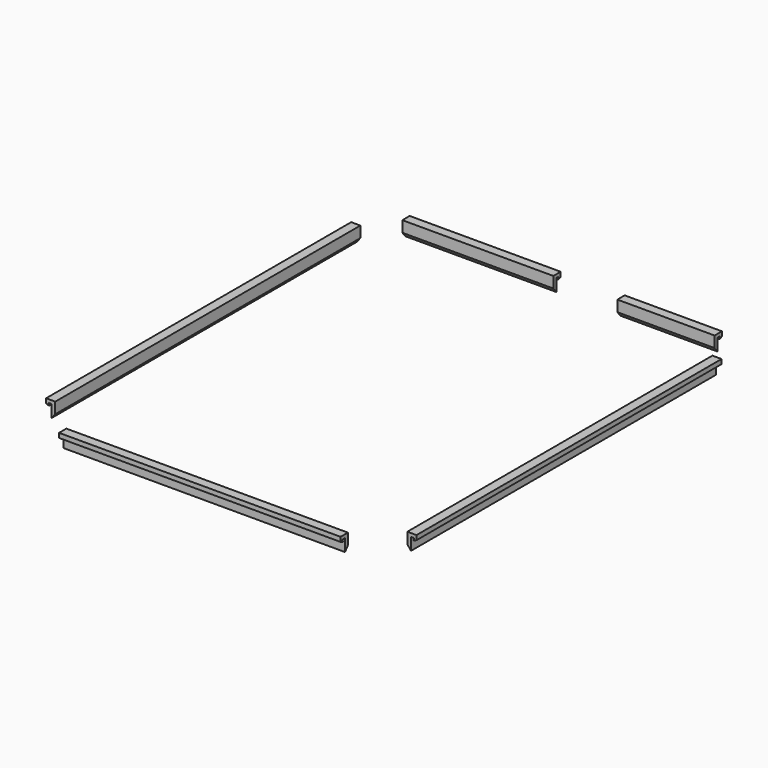
from build123d import *

# Parameters (mm, degrees)
EXTRUDE106_DEPTH                  = 55
EXTRUDE107_DEPTH                  = 74.5
PART_MIRRORING005_PLACEMENT_ANGLE = 90
EXTRUDE108_DEPTH                  = 74.5
PART_MIRRORING007_PLACEMENT_ANGLE = 90
EXTRUDE109_DEPTH                  = 19
EXTRUDE105_DEPTH                  = 29.5


with BuildPart() as bottom_notch005:
    # Sketch108 → Extrude106 (new body)
    with BuildSketch(Plane.YZ):
        Polygon((1.890375, 25.594459), (1.890375, 27.613628), (1.890375, 28.007893), (1.285825, 28.007893), (1.394986, 27.535334), (0.819798, 27.769814), (0.819798, 28.652969), (2.608973, 28.652969), (2.608973, 26.491592), align=None)
    extrude(amount=EXTRUDE106_DEPTH)


with BuildPart() as bottom_notch005_1:
    # Extrude106 placement: moved
    add(bottom_notch005.part.moved(Location((9.5, 0, -0.1))))


with BuildPart() as bottom_notch006:
    # Sketch109 → Extrude107 (new body)
    with BuildSketch(Plane.YZ):
        Polygon((1.890375, 25.594459), (1.890375, 27.613628), (1.890375, 28.007893), (1.285825, 28.007893), (1.394986, 27.535334), (0.819798, 27.769814), (0.819798, 28.652969), (2.608973, 28.652969), (2.608973, 26.491592), align=None)
    extrude(amount=EXTRUDE107_DEPTH)


with BuildPart() as bottom_notch006_1:
    # Extrude107 placement: moved
    add(bottom_notch006.part.moved(Location((4.5, 0, -0.1))))


with BuildPart() as left_notch001:
    # Part__Mirroring005: instance of Bottom_Notch006
    add(bottom_notch006_1.part.mirror(Plane(origin=(37, 2e-06, 27.023727), x_dir=(1, 0, 0), z_dir=(0, 1, 0))))


with BuildPart() as left_notch001_1:
    # Part__Mirroring005 placement: moved
    add(left_notch001.part.moved(Location((0, 4, 0))).rotate(Axis((0, 4, 0), (0, 0, 1)), PART_MIRRORING005_PLACEMENT_ANGLE))


with BuildPart() as bottom_notch007:
    # Sketch110 → Extrude108 (new body)
    with BuildSketch(Plane.YZ):
        Polygon((1.890375, 25.594459), (1.890375, 27.613628), (1.890375, 28.007893), (1.285825, 28.007893), (1.394986, 27.535334), (0.819798, 27.769814), (0.819798, 28.652969), (2.608973, 28.652969), (2.608973, 26.491592), align=None)
    extrude(amount=EXTRUDE108_DEPTH)


with BuildPart() as bottom_notch007_1:
    # Extrude108 placement: moved
    add(bottom_notch007.part.moved(Location((4.5, 0, -0.1))))


with BuildPart() as right_notch001:
    # Part__Mirroring007: instance of Bottom_Notch007
    add(bottom_notch007_1.part.mirror(Plane(origin=(37, 2e-06, 27.0237), x_dir=(1, 0, 0), z_dir=(0, 1, 0))))


with BuildPart() as right_notch001_1:
    # Part__Mirroring007 placement: moved
    add(right_notch001.part.rotate(Axis((0, 0, 0), (0, 0, 1)), PART_MIRRORING007_PLACEMENT_ANGLE))


with BuildPart() as part_mirroring006:
    # Part__Mirroring006: instance of right_notch001
    add(right_notch001_1.part.mirror(Plane(origin=(0, 0, 0), x_dir=(0, -1, 0), z_dir=(1, 0, 0))))


with BuildPart() as part_mirroring006_1:
    # Part__Mirroring006 placement: moved
    add(part_mirroring006.part.moved(Location((74, 4, 0))))


with BuildPart() as bottom_notch008:
    # Sketch111 → Extrude109 (new body)
    with BuildSketch(Plane.YZ):
        Polygon((1.890375, 25.594459), (1.890375, 27.613628), (1.890375, 28.007893), (1.285825, 28.007893), (1.394986, 27.535334), (0.819798, 27.769814), (0.819798, 28.652969), (2.608973, 28.652969), (2.608973, 26.491592), align=None)
    extrude(amount=EXTRUDE109_DEPTH)


with BuildPart() as bottom_notch008_1:
    # Extrude109 placement: moved
    add(bottom_notch008.part.moved(Location((4.5, 0, -0.1))))


with BuildPart() as top_notch002:
    # Part__Mirroring008: instance of Bottom_Notch008
    add(bottom_notch008_1.part.mirror(Plane(origin=(0, 0, 0), x_dir=(1, 0, 0), z_dir=(0, 1, 0))))


with BuildPart() as top_notch002_1:
    # Part__Mirroring008 placement: moved
    add(top_notch002.part.moved(Location((44, 91, 0))))


with BuildPart() as bottom_notch004:
    # Sketch107 → Extrude105 (new body)
    with BuildSketch(Plane.YZ):
        Polygon((1.890375, 25.594459), (1.890375, 27.613628), (1.890375, 28.007893), (1.285825, 28.007893), (1.394986, 27.535334), (0.819798, 27.769814), (0.819798, 28.652969), (2.608973, 28.652969), (2.608973, 26.491592), align=None)
    extrude(amount=EXTRUDE105_DEPTH)


with BuildPart() as bottom_notch004_1:
    # Extrude105 placement: moved
    add(bottom_notch004.part.moved(Location((4.5, 0, -0.1))))


with BuildPart() as notch_cut:
    # Part__Mirroring004: instance of Bottom_Notch004
    add(bottom_notch004_1.part.mirror(Plane(origin=(0, 0, 0), x_dir=(1, 0, 0), z_dir=(0, 1, 0))))


with BuildPart() as notch_cut_1:
    # Part__Mirroring004 placement: moved
    add(notch_cut.part.moved(Location((2, 91, 0))))

    # Fusion: union Bottom_Notch005, left_notch001, Part__Mirroring006, Top_notch002
    add(bottom_notch005_1.part)
    add(left_notch001_1.part)
    add(part_mirroring006_1.part)
    add(top_notch002_1.part)


solid = notch_cut_1.part
